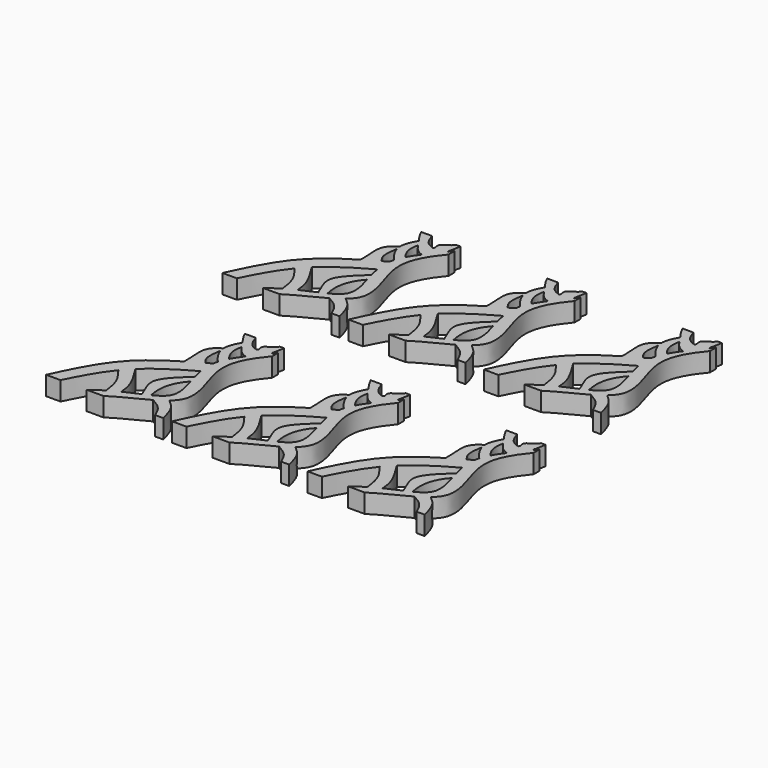
from build123d import *

# Parameters (mm, degrees)
F1_DEPTH = 50
F2_SCALE = 0.06


with BuildPart() as f1:
    # F0 (on Top) → F1 (new body)
    with BuildSketch(Plane.XY):
        with BuildLine():
            add(Edge.make_bspline(
                [(33.7992499113, 32.4442463824), (-1.3140516, 11.1969938069), (-82.9509326157, -45.9527424638), (-125.9686970754, -137.606794731), (-151.571293213, -192.3071747745)],
                knots=[0.1650584684, 0.1650584684, 0.1650584684, 0.1650584684, 0.502312505, 1, 1, 1, 1], degree=3))
            Line((-151.571293213, -192.3071747745), (-113.3603453636, -192.3071747745))
            add(Edge.make_bspline(
                [(-47.6813485904, -82.8825103726), (-73.9418191046, -115.1830009143), (-94.0292507398, -153.2818472534), (-113.3603453636, -192.3071747745)],
                knots=[0.5680635842, 0.5680635842, 0.5680635842, 0.5680635842, 1, 1, 1, 1], degree=3))
            add(Edge.make_bspline(
                [(-23.5778673601, -56.7194873224), (-27.8845088808, -60.8451196614), (-36.1979815182, -69.3017688301), (-43.9455530092, -78.2874659017), (-47.6813485904, -82.8825103726)],
                knots=[0.44475387, 0.44475387, 0.44475387, 0.44475387, 0.5066166215, 0.5680635842, 0.5680635842, 0.5680635842, 0.5680635842], degree=3))
            add(Edge.make_bspline(
                [(87.9483139372, 20.1501727821), (45.3698576212, -3.4429156349), (7.3841483298, -27.0588126184), (-23.5778673601, -56.7194873224)],
                knots=[0, 0, 0, 0, 0.44475387, 0.44475387, 0.44475387, 0.44475387], degree=3))
            add(Edge.make_bspline(
                [(86.4029882629, 62.7652361886), (85.449929096, 56.9509946506), (84.4401796439, 43.3835035509), (86.3354202415, 28.6006214532), (87.9483139372, 20.1501727821)],
                knots=[0.2898066076, 0.2898066076, 0.2898066076, 0.2898066076, 0.3311800495, 0.3836336632, 0.3836336632, 0.3836336632, 0.3836336632], degree=3))
            add(Edge.make_bspline(
                [(86.4029882629, 62.7652361886), (81.640548889, 60.0876764663), (76.8798520499, 57.4104488306), (72.1303694176, 54.7249239917)],
                knots=[0, 0, 0, 0, 0.0443577779, 0.0443577779, 0.0443577779, 0.0443577779], degree=3))
            add(Edge.make_bspline(
                [(72.1303694176, 54.7249239917), (59.2066870205, 47.4174185697), (46.3660371976, 40.0484787401), (33.7992499113, 32.4442463824)],
                knots=[0.0443577779, 0.0443577779, 0.0443577779, 0.0443577779, 0.1650584684, 0.1650584684, 0.1650584684, 0.1650584684], degree=3))
        make_face()
        with BuildLine():
            add(Edge.make_bspline(
                [(-47.6813485904, -82.8825103726), (-37.6976178586, -95.8078145278), (-17.6570022581, -121.6548352785), (-13.2867608742, -153.7004230944), (-11.0641516952, -169.7119861588)],
                knots=[0, 0, 0, 0, 0.5013709336, 1, 1, 1, 1], degree=3))
            add(Edge.make_bspline(
                [(16.9321630542, -154.4396487608), (7.9475731058, -158.9016267331), (-1.4242642684, -163.9163277691), (-11.0641516952, -169.7119861588)],
                knots=[0.8987923644, 0.8987923644, 0.8987923644, 0.8987923644, 0.9466643403, 0.9466643403, 0.9466643403, 0.9466643403], degree=3))
            add(Edge.make_bspline(
                [(-23.5778673601, -56.7194873224), (-10.048506017, -78.2254081232), (13.3855203997, -115.4324178206), (15.8758483062, -142.8745703905), (16.9321630542, -154.4396487608)],
                knots=[0, 0, 0, 0, 0.5786754475, 1, 1, 1, 1], degree=3))
            add(Edge.make_bspline(
                [(-23.5778673601, -56.7194873224), (-27.8845088808, -60.8451196614), (-36.1979815182, -69.3017688301), (-43.9455530092, -78.2874659017), (-47.6813485904, -82.8825103726)],
                knots=[0.44475387, 0.44475387, 0.44475387, 0.44475387, 0.5066166215, 0.5680635842, 0.5680635842, 0.5680635842, 0.5680635842], degree=3))
        make_face()
        with BuildLine():
            Line((161.5726722864, 164.2289310694), (161.5726722864, 183.500433121))
            add(Edge.make_bspline(
                [(161.5726722864, 183.500433121), (158.6697561937, 179.7603709259), (155.7997051715, 176.1136274949), (152.9720624863, 172.5488397796)],
                knots=[0, 0, 0, 0, 0.0227975426, 0.0227975426, 0.0227975426, 0.0227975426], degree=3))
            add(Edge.make_bspline(
                [(152.9720624863, 172.5488397796), (149.5266021616, 168.2051740458), (146.144106472, 163.9831898515), (142.8418403639, 159.8623300408)],
                knots=[0.0227975426, 0.0227975426, 0.0227975426, 0.0227975426, 0.0505761686, 0.0505761686, 0.0505761686, 0.0505761686], degree=3))
            add(Edge.make_bspline(
                [(142.8418403639, 159.8623300408), (134.2230298354, 149.1070157325), (126.1507380473, 139.0405542113), (118.931917396, 129.2974610904)],
                knots=[0.0505761686, 0.0505761686, 0.0505761686, 0.0505761686, 0.1230775075, 0.1230775075, 0.1230775075, 0.1230775075], degree=3))
            add(Edge.make_bspline(
                [(118.931917396, 129.2974610904), (111.4275135493, 119.1689222297), (104.8454447873, 109.3898433661), (99.5305536728, 99.5496247644)],
                knots=[0.1230775075, 0.1230775075, 0.1230775075, 0.1230775075, 0.1984470661, 0.1984470661, 0.1984470661, 0.1984470661], degree=3))
            add(Edge.make_bspline(
                [(99.5305536728, 99.5496247644), (95.1743477908, 91.4843573429), (91.6694084315, 83.3780173754), (89.2056084764, 75.0045255924)],
                knots=[0.1984470661, 0.1984470661, 0.1984470661, 0.1984470661, 0.260221674, 0.260221674, 0.260221674, 0.260221674], degree=3))
            add(Edge.make_bspline(
                [(89.2056084764, 75.0045255924), (88.0256518483, 70.9943148164), (87.0844928908, 66.9228296031), (86.4029882629, 62.7652361886)],
                knots=[0.260221674, 0.260221674, 0.260221674, 0.260221674, 0.2898066076, 0.2898066076, 0.2898066076, 0.2898066076], degree=3))
            add(Edge.make_bspline(
                [(86.4029882629, 62.7652361886), (85.449929096, 56.9509946506), (84.4401796439, 43.3835035509), (86.3354202415, 28.6006214532), (87.9483139372, 20.1501727821)],
                knots=[0.2898066076, 0.2898066076, 0.2898066076, 0.2898066076, 0.3311800495, 0.3836336632, 0.3836336632, 0.3836336632, 0.3836336632], degree=3))
            add(Edge.make_bspline(
                [(87.9483139372, 20.1501727821), (89.6334036756, 11.3214667244), (91.9225091752, 2.2895818916), (94.4113235468, -6.7245809888)],
                knots=[0.3836336632, 0.3836336632, 0.3836336632, 0.3836336632, 0.4384351956, 0.4384351956, 0.4384351956, 0.4384351956], degree=3))
            add(Edge.make_bspline(
                [(94.4113235468, -6.7245809888), (96.4305537515, -14.0379709171), (98.5812410463, -21.3396954834), (100.6474662993, -28.5117831797)],
                knots=[0.4384351956, 0.4384351956, 0.4384351956, 0.4384351956, 0.4828968922, 0.4828968922, 0.4828968922, 0.4828968922], degree=3))
            add(Edge.make_bspline(
                [(100.6474662993, -28.5117831797), (108.2301787006, -54.8321847135), (119.9469648226, -99.5063533785), (92.6369226658, -119.1415299059), (75.0321073118, -127.8520125935)],
                knots=[0.4828968922, 0.4828968922, 0.4828968922, 0.4828968922, 0.6460641257, 0.7795199626, 0.7795199626, 0.7795199626, 0.7795199626], degree=3))
            add(Edge.make_bspline(
                [(75.0321073118, -127.8520125935), (69.5360042843, -130.5713657539), (63.5216279141, -133.2786604033), (57.0675570237, -136.1243560803)],
                knots=[0.7795199626, 0.7795199626, 0.7795199626, 0.7795199626, 0.8211839627, 0.8211839627, 0.8211839627, 0.8211839627], degree=3))
            add(Edge.make_bspline(
                [(57.0675570237, -136.1243560803), (45.045424625, -141.4250927436), (31.4976714177, -147.2060434603), (16.9321630542, -154.4396487608)],
                knots=[0.8211839627, 0.8211839627, 0.8211839627, 0.8211839627, 0.8987923644, 0.8987923644, 0.8987923644, 0.8987923644], degree=3))
            add(Edge.make_bspline(
                [(16.9321630542, -154.4396487608), (7.9475731058, -158.9016267331), (-1.4242642684, -163.9163277691), (-11.0641516952, -169.7119861588)],
                knots=[0.8987923644, 0.8987923644, 0.8987923644, 0.8987923644, 0.9466643403, 0.9466643403, 0.9466643403, 0.9466643403], degree=3))
            add(Edge.make_bspline(
                [(-11.0641516952, -169.7119861588), (-21.8042505923, -176.1691097249), (-32.877076864, -183.5956264599), (-44.1177855636, -192.3071747745)],
                knots=[0.9466643403, 0.9466643403, 0.9466643403, 0.9466643403, 1, 1, 1, 1], degree=3))
            Line((-44.1177855636, -192.3071747745), (0, -192.3071747745))
            add(Edge.make_bspline(
                [(91.6558492517, -142.1554952409), (63.5808744263, -158.4654974972), (28.6929657416, -173.0898848198), (0, -192.3071747745)],
                knots=[0.8011074852, 0.8011074852, 0.8011074852, 0.8011074852, 1, 1, 1, 1], degree=3))
            add(Edge.make_bspline(
                [(119.3154431729, -123.0815035944), (111.4612420038, -129.8801116218), (102.0230483979, -136.1327279003), (91.6558492517, -142.1554952409)],
                knots=[0.7276627779, 0.7276627779, 0.7276627779, 0.7276627779, 0.8011074852, 0.8011074852, 0.8011074852, 0.8011074852], degree=3))
            add(Edge.make_bspline(
                [(161.5726722864, 164.2289310694), (127.9283165879, 123.741138071), (90.0243038422, 52.1079771624), (162.5005260377, -72.9909762919), (128.5067292283, -115.1255129324), (119.3154431729, -123.0815035944)],
                knots=[0, 0, 0, 0, 0.3115903654, 0.6417149775, 0.7276627779, 0.7276627779, 0.7276627779, 0.7276627779], degree=3))
        make_face()
        with BuildLine():
            add(Edge.make_bspline(
                [(119.3154431729, -123.0815035944), (127.8271004026, -130.229203514), (146.5347439848, -145.9824570753), (154.2952784291, -176.0164611644), (158.504858613, -192.3071747745)],
                knots=[0, 0, 0, 0, 0.4583695956, 1, 1, 1, 1], degree=3))
            add(Edge.make_bspline(
                [(119.3154431729, -123.0815035944), (111.4612420038, -129.8801116218), (102.0230483979, -136.1327279003), (91.6558492517, -142.1554952409)],
                knots=[0.7276627779, 0.7276627779, 0.7276627779, 0.7276627779, 0.8011074852, 0.8011074852, 0.8011074852, 0.8011074852], degree=3))
            add(Edge.make_bspline(
                [(91.6558492517, -142.1554952409), (102.2562480915, -148.266180717), (123.0818131064, -159.961158959), (132.4458816607, -181.5720975488), (137.090831995, -192.3071747745)],
                knots=[0, 0, 0, 0, 0.5038335041, 1, 1, 1, 1], degree=3))
            Line((137.090831995, -192.3071747745), (158.504858613, -192.3071747745))
        make_face()
        with BuildLine():
            add(Edge.make_bspline(
                [(94.4113235468, -6.7245809888), (96.4305537515, -14.0379709171), (98.5812410463, -21.3396954834), (100.6474662993, -28.5117831797)],
                knots=[0.4384351956, 0.4384351956, 0.4384351956, 0.4384351956, 0.4828968922, 0.4828968922, 0.4828968922, 0.4828968922], degree=3))
            add(Edge.make_bspline(
                [(94.4113235468, -6.7245809888), (69.8929498645, -30.0484086542), (20.7095259404, -72.3808334135), (49.418452744, -114.6003239541), (57.0675570237, -136.1243560803)],
                knots=[0, 0, 0, 0, 0.5429128164, 1, 1, 1, 1], degree=3))
            add(Edge.make_bspline(
                [(75.0321073118, -127.8520125935), (69.5360042843, -130.5713657539), (63.5216279141, -133.2786604033), (57.0675570237, -136.1243560803)],
                knots=[0.7795199626, 0.7795199626, 0.7795199626, 0.7795199626, 0.8211839627, 0.8211839627, 0.8211839627, 0.8211839627], degree=3))
            add(Edge.make_bspline(
                [(100.6474662993, -28.5117831797), (85.276066462, -45.5253793732), (69.9269817684, -77.6031695274), (71.0284103415, -109.5876994667), (75.0321073118, -127.8520125935)],
                knots=[0, 0, 0, 0, 0.5186390985, 1, 1, 1, 1], degree=3))
        make_face()
        with BuildLine():
            add(Edge.make_bspline(
                [(60.7451200485, 128.8491934538), (60.921887229, 124.9463354687), (61.6026617993, 120.996224136), (62.7479620056, 117.0065256713)],
                knots=[0.4677213645, 0.4677213645, 0.4677213645, 0.4677213645, 0.588178468, 0.588178468, 0.588178468, 0.588178468], degree=3))
            add(Edge.make_bspline(
                [(60.7451200485, 128.8491934538), (48.2160558796, 122.1916522311), (31.5425676347, 105.5782576293), (31.9310774144, 71.145822202), (34.5967065269, 43.9006996814), (33.7992499113, 32.4442463824)],
                knots=[0, 0, 0, 0, 0.333000285, 0.6525505547, 1, 1, 1, 1], degree=3))
            add(Edge.make_bspline(
                [(72.1303694176, 54.7249239917), (59.2066870205, 47.4174185697), (46.3660371976, 40.0484787401), (33.7992499113, 32.4442463824)],
                knots=[0.0443577779, 0.0443577779, 0.0443577779, 0.0443577779, 0.1650584684, 0.1650584684, 0.1650584684, 0.1650584684], degree=3))
            add(Edge.make_bspline(
                [(62.7479620056, 117.0065256713), (59.6024443223, 101.0625210628), (57.2426052815, 73.9770761074), (66.5558771435, 61.7781009903), (72.1303694176, 54.7249239917)],
                knots=[0, 0, 0, 0, 0.5746630446, 1, 1, 1, 1], degree=3))
        make_face()
        with BuildLine():
            add(Edge.make_bspline(
                [(75.4271748481, 173.5246273106), (77.3752720663, 170.7812263834), (81.134719612, 165.4233111741), (84.7614654199, 159.7675420119), (86.5594399231, 157.0506042409)],
                knots=[0.3943758085, 0.3943758085, 0.3943758085, 0.3943758085, 0.4949279004, 0.5888141141, 0.5888141141, 0.5888141141, 0.5888141141], degree=3))
            add(Edge.make_bspline(
                [(75.4271748481, 173.5246273106), (66.9712117374, 158.4454793727), (60.0587529981, 144.0035513846), (60.7451200485, 128.8491934538)],
                knots=[0, 0, 0, 0, 0.4677213645, 0.4677213645, 0.4677213645, 0.4677213645], degree=3))
            add(Edge.make_bspline(
                [(60.7451200485, 128.8491934538), (60.921887229, 124.9463354687), (61.6026617993, 120.996224136), (62.7479620056, 117.0065256713)],
                knots=[0.4677213645, 0.4677213645, 0.4677213645, 0.4677213645, 0.588178468, 0.588178468, 0.588178468, 0.588178468], degree=3))
            add(Edge.make_bspline(
                [(62.7479620056, 117.0065256713), (66.6635408444, 103.3664522692), (76.0086586492, 89.2636705474), (89.2056084764, 75.0045255924)],
                knots=[0.588178468, 0.588178468, 0.588178468, 0.588178468, 1, 1, 1, 1], degree=3))
            add(Edge.make_bspline(
                [(99.5305536728, 99.5496247644), (95.1743477908, 91.4843573429), (91.6694084315, 83.3780173754), (89.2056084764, 75.0045255924)],
                knots=[0.1984470661, 0.1984470661, 0.1984470661, 0.1984470661, 0.260221674, 0.260221674, 0.260221674, 0.260221674], degree=3))
            add(Edge.make_bspline(
                [(86.5594399231, 157.0506042409), (83.9878015469, 147.0462299724), (82.836579489, 127.8427234548), (90.6243055451, 109.9335235527), (99.5305536728, 99.5496247644)],
                knots=[0, 0, 0, 0, 0.4816112661, 1, 1, 1, 1], degree=3))
        make_face()
        with BuildLine():
            add(Edge.make_bspline(
                [(83.0902010202, 207.6928252255), (87.110088997, 195.8396449748), (93.5872758475, 177.0872799999), (110.8460810758, 169.3792962525), (118.0063178545, 167.0171113404)],
                knots=[0, 0, 0, 0, 0.4677504063, 0.7294986849, 0.7294986849, 0.7294986849, 0.7294986849], degree=3))
            Line((83.0902010202, 207.6928252255), (54.227810353, 207.6928252255))
            add(Edge.make_bspline(
                [(54.227810353, 207.6928252255), (60.0854175021, 194.6229659864), (67.7865340514, 184.2845323351), (75.4271748481, 173.5246273106)],
                knots=[0, 0, 0, 0, 0.3943758085, 0.3943758085, 0.3943758085, 0.3943758085], degree=3))
            add(Edge.make_bspline(
                [(75.4271748481, 173.5246273106), (77.3752720663, 170.7812263834), (81.134719612, 165.4233111741), (84.7614654199, 159.7675420119), (86.5594399231, 157.0506042409)],
                knots=[0.3943758085, 0.3943758085, 0.3943758085, 0.3943758085, 0.4949279004, 0.5888141141, 0.5888141141, 0.5888141141, 0.5888141141], degree=3))
            add(Edge.make_bspline(
                [(86.5594399231, 157.0506042409), (94.3573639982, 145.2670809389), (103.0350172008, 133.7468834117), (118.931917396, 129.2974610904)],
                knots=[0.5888141141, 0.5888141141, 0.5888141141, 0.5888141141, 0.9960042969, 0.9960042969, 0.9960042969, 0.9960042969], degree=3))
            add(Edge.make_bspline(
                [(142.8418403639, 159.8623300408), (134.2230298354, 149.1070157325), (126.1507380473, 139.0405542113), (118.931917396, 129.2974610904)],
                knots=[0.0505761686, 0.0505761686, 0.0505761686, 0.0505761686, 0.1230775075, 0.1230775075, 0.1230775075, 0.1230775075], degree=3))
            add(Edge.make_bspline(
                [(118.0063178545, 167.0171113404), (125.4059977095, 164.5759333951), (133.8391586431, 162.5656756814), (142.8418403639, 159.8623300408)],
                knots=[0.7294986849, 0.7294986849, 0.7294986849, 0.7294986849, 1, 1, 1, 1], degree=3))
        make_face()
        with BuildLine():
            add(Edge.make_bspline(
                [(158.504858613, 207.6928252255), (155.8710665844, 197.6334981347), (155.1200926152, 181.8258093222), (151.6002153146, 176.3836793356), (152.9720624863, 172.5488397796)],
                knots=[0, 0, 0, 0, 0.625221571, 1, 1, 1, 1], degree=3))
            Line((158.504858613, 207.6928252255), (146.4012861252, 207.6928252255))
            add(Edge.make_bspline(
                [(146.4012861252, 207.6928252255), (143.1155545876, 197.7078282598), (108.3076436448, 187.9302668709), (123.4952842004, 171.6174236455), (118.0063178545, 167.0171113404)],
                knots=[0, 0, 0, 0, 0.5941954131, 1, 1, 1, 1], degree=3))
            add(Edge.make_bspline(
                [(118.0063178545, 167.0171113404), (125.4059977095, 164.5759333951), (133.8391586431, 162.5656756814), (142.8418403639, 159.8623300408)],
                knots=[0.7294986849, 0.7294986849, 0.7294986849, 0.7294986849, 1, 1, 1, 1], degree=3))
            add(Edge.make_bspline(
                [(152.9720624863, 172.5488397796), (149.5266021616, 168.2051740458), (146.144106472, 163.9831898515), (142.8418403639, 159.8623300408)],
                knots=[0.0227975426, 0.0227975426, 0.0227975426, 0.0227975426, 0.0505761686, 0.0505761686, 0.0505761686, 0.0505761686], degree=3))
        make_face()
    extrude(amount=F1_DEPTH)


with BuildPart() as f1_1:
    # F2: moved
    add(f1.part.scale(F2_SCALE))


with BuildPart() as f3_1:
    # F3: copy of F1
    add(f1_1.part.moved(Location((21.5, 0, 0))))


with BuildPart() as f4_1:
    # F4: copy of F1
    add(f1_1.part.moved(Location((-20, 0, 0))))


with BuildPart() as f5_1:
    # F5: copy of F1
    add(f1_1.part.moved(Location((0, 35, 0))))


with BuildPart() as f6_1:
    # F6: copy of F3_1
    add(f3_1.part.moved(Location((0, 35, 0))))


with BuildPart() as f7_1:
    # F7: copy of F4_1
    add(f4_1.part.moved(Location((0, 35, 0))))


solid = Compound([f1_1.part, f3_1.part, f4_1.part, f5_1.part, f6_1.part, f7_1.part])
